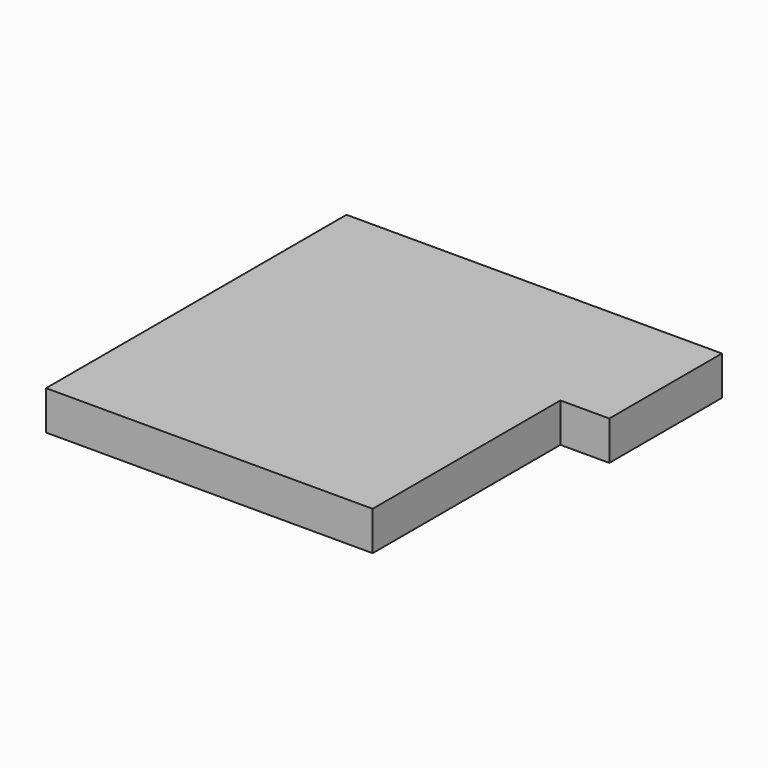
from build123d import *

# Parameters (mm, degrees)
F2_DEPTH  = 20
F3_W      = 217
F3_H      = 242
F3_W_2    = 167
F3_H_2    = 192
F4_DEPTH  = 240
F5_W      = 48
F5_H      = 72
F6_DEPTH  = 250
F7_W      = 79
F7_H      = 85
F8_DEPTH  = 25
F10_DEPTH = 25
F12_DEPTH = 240.001


with BuildPart() as f2:
    # F1 (on face) → F2 (new body)
    with BuildSketch(Plane.XY):
        Polygon((-497, -215), (-497, -231), (-497, -293), (-497, -407), (-330, -407), (-330, -287), (-330, -215), align=None)
    extrude(amount=F2_DEPTH)

    # F3 (on face) → F4 (join)
    with BuildSketch(Plane.XY):
        with Locations((-413.5, -311)):
            Rectangle(F3_W, F3_H)
        with Locations((-413.5, -311)):
            Rectangle(F3_W_2, F3_H_2, mode=Mode.SUBTRACT)
    extrude(amount=F4_DEPTH)

    # F5 (on face) → F6 (cut)
    with BuildSketch(Plane.XY.offset(20)):
        with Locations((-306, -251)):
            Rectangle(F5_W, F5_H)
    extrude(amount=F6_DEPTH, mode=Mode.SUBTRACT)

    # F7 (on face) → F8 (cut)
    with BuildSketch(Plane.YZ.offset(-497)):
        with Locations((-309.5, 177.5)):
            Rectangle(F7_W, F7_H)
    extrude(amount=-F8_DEPTH, mode=Mode.SUBTRACT)

    # F9 (on face) → F10 (join, through all)
    with BuildSketch(Plane.YZ.offset(-497)):
        Polygon((-270, 135), (-270, 220), (-290, 220), (-290, 155), (-349, 155), (-349, 135), align=None)
    extrude(amount=-F10_DEPTH)

    # F11 (on face) → F12 (cut, through all)
    with BuildSketch(Plane.XY.offset(240)):
        Polygon((-497, -407), (-497, -215), (-305, -215), (-305, -190), (-522, -190), (-522, -432), (-305, -432), (-305, -287), (-330, -287), (-330, -407), align=None)
    extrude(amount=-F12_DEPTH, mode=Mode.SUBTRACT)


solid = f2.part
